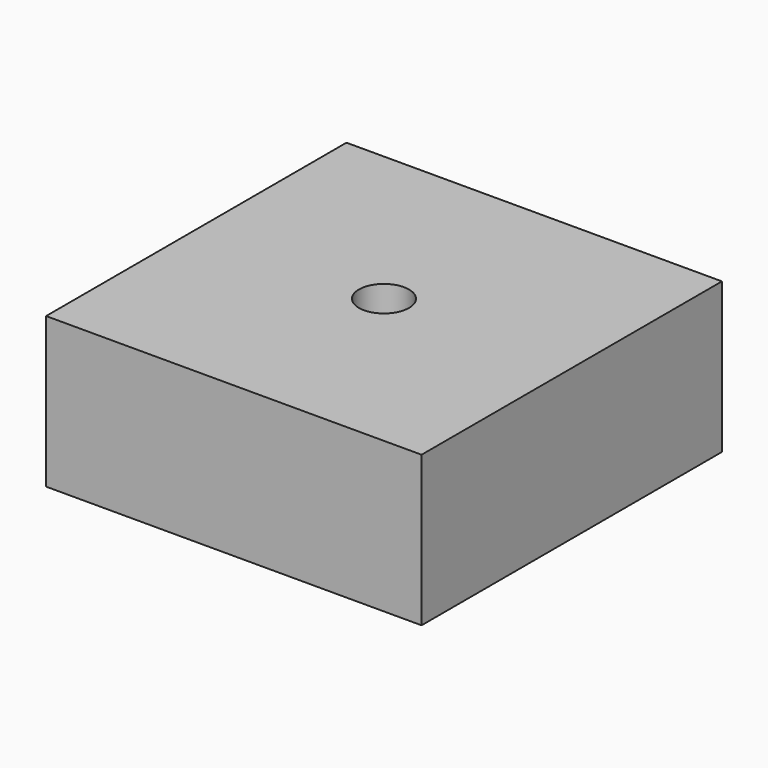
from build123d import *

# Parameters (mm, degrees)
F0_W     = 45
F0_H     = 45
F1_DEPTH = 18
F2_R     = 3
F3_DEPTH = 18.001
F6_DEPTH = 5


with BuildPart() as f1:
    # F0 (on Top) → F1 (new body)
    with BuildSketch(Plane.XY):
        Rectangle(F0_W, F0_H)
    extrude(amount=F1_DEPTH)

    # F2 (on Top) → F3 (cut, through all)
    with BuildSketch(Plane.XY):
        Circle(F2_R)
    extrude(amount=F3_DEPTH, mode=Mode.SUBTRACT)

    # F5 (on face) → F6 (cut)
    with BuildSketch(Plane(origin=(0, 0, 0), x_dir=(1, 0, 0), z_dir=(0, 0, -1))):
        Polygon((5, -2.886751), (5, 2.886751), (0, 5.773503), (-5, 2.886751), (-5, -2.886751), (0, -5.773503), align=None)
    extrude(amount=-F6_DEPTH, mode=Mode.SUBTRACT)


solid = f1.part
